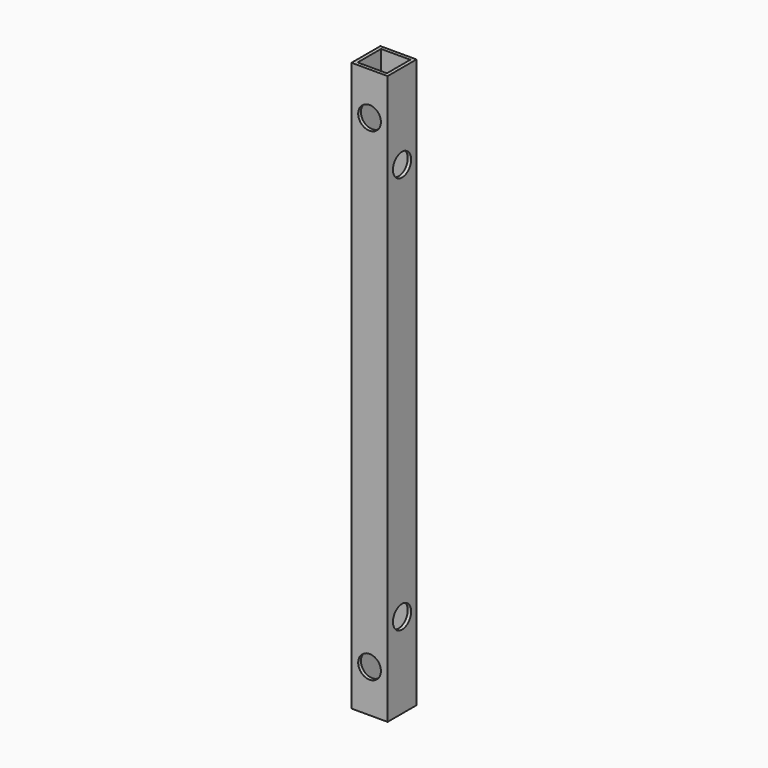
from build123d import *

# Parameters (mm, degrees)
CYLINDER003_R     = 4
CYLINDER003_DEPTH = 12.7
CYLINDER002_R     = 4
CYLINDER002_DEPTH = 12.7
CYLINDER_R        = 4
CYLINDER_DEPTH    = 12.7
CYLINDER001_R     = 4
CYLINDER001_DEPTH = 12.7
BOX001_W          = 10.3
BOX001_H          = 10.3
BOX001_DEPTH      = 200
BOX_W             = 12.7
BOX_H             = 12.7
BOX_DEPTH         = 200


with BuildPart() as cilindro003:
    # Cylinder003 → Cylinder003 (new body)
    with BuildSketch(Plane(origin=(0, 6.35, 170), x_dir=(0, 0, -1), z_dir=(1, 0, 0))):
        Circle(CYLINDER003_R)
    extrude(amount=CYLINDER003_DEPTH)


with BuildPart() as cilindro002:
    # Cylinder002 → Cylinder002 (new body)
    with BuildSketch(Plane(origin=(0, 6.35, 30), x_dir=(0, 0, -1), z_dir=(1, 0, 0))):
        Circle(CYLINDER002_R)
    extrude(amount=CYLINDER002_DEPTH)


with BuildPart() as cilindro:
    # Cylinder → Cylinder (new body)
    with BuildSketch(Plane(origin=(6.35, 0, 15), x_dir=(1, 0, 0), z_dir=(0, 1, 0))):
        Circle(CYLINDER_R)
    extrude(amount=CYLINDER_DEPTH)


with BuildPart() as cilindro001:
    # Cylinder001 → Cylinder001 (new body)
    with BuildSketch(Plane(origin=(6.35, 0, 185), x_dir=(1, 0, 0), z_dir=(0, 1, 0))):
        Circle(CYLINDER001_R)
    extrude(amount=CYLINDER001_DEPTH)


with BuildPart() as obj1:
    # Box001 → Box001 (new body)
    with BuildSketch(Plane(origin=(1.2, 1.2, 0), x_dir=(1, 0, 0), z_dir=(0, 0, 1))):
        with Locations((5.15, 5.15)):
            Rectangle(BOX001_W, BOX001_H)
    extrude(amount=BOX001_DEPTH)


with BuildPart() as obj2:
    # Box → Box (new body)
    with BuildSketch(Plane.XY):
        with Locations((6.35, 6.35)):
            Rectangle(BOX_W, BOX_H)
    extrude(amount=BOX_DEPTH)

    # Cut: cut obj1
    add(obj1.part, mode=Mode.SUBTRACT)

    # Cut001: cut Cilindro001
    add(cilindro001.part, mode=Mode.SUBTRACT)

    # Cut002: cut Cilindro
    add(cilindro.part, mode=Mode.SUBTRACT)

    # Cut003: cut Cilindro002
    add(cilindro002.part, mode=Mode.SUBTRACT)

    # Cut004: cut Cilindro003
    add(cilindro003.part, mode=Mode.SUBTRACT)


solid = obj2.part
